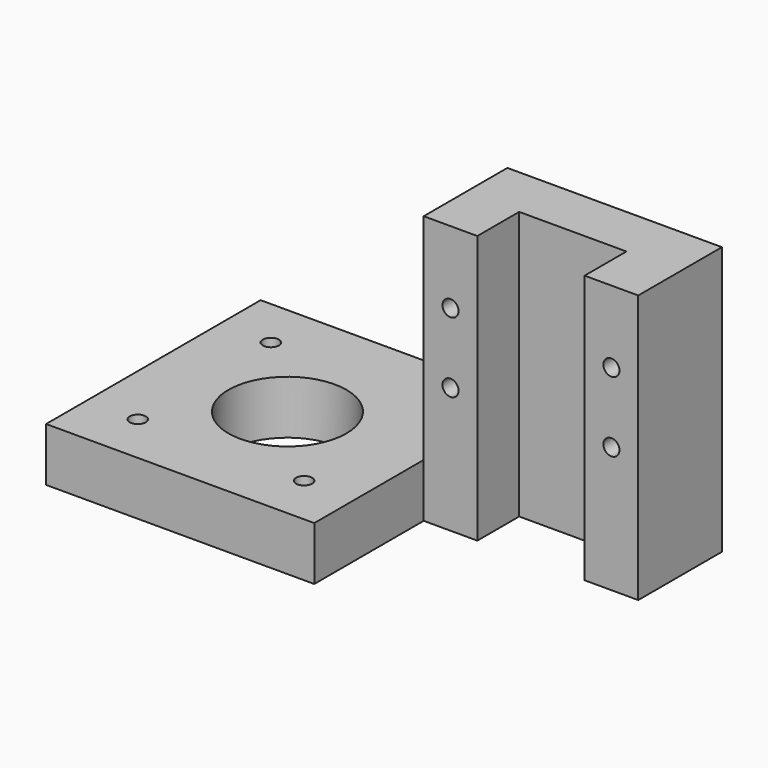
from build123d import *

# Parameters (mm, degrees)
F0_R     = 11
F1_DEPTH = 10
F3_D     = 3
F0_W     = 10
F0_H     = 9.75
F0_W_2   = 20
F4_DEPTH = 50
F5_R     = 1.5
F6_DEPTH = 3
F7_DEPTH = 20


with BuildPart() as f1:
    # F0 (on Top) → F1 (new body)
    with BuildSketch(Plane.XY):
        Polygon((18.0623630062, 45), (-31.9376369938, 45), (-31.9376369938, -5), (18.0623630062, -5), (18.0623630062, 0), (18.0623630062, 20.5), (18.0623630062, 30.25), (18.0623630062, 40), align=None)
        with Locations((-6.9376369938, 20)):
            Circle(F0_R, mode=Mode.SUBTRACT)
    extrude(amount=F1_DEPTH)

    # F3 (through all)
    with Locations(Plane(origin=(0, 0, 0), x_dir=(1, 0, 0), z_dir=(0, 0, -1))):
        with Locations((8.5623630062, -4.5), (-22.4376369938, -4.5), (-22.4376369938, -35.5), (8.5623630062, -35.5)):
            Hole(F3_D / 2)

    # F0 (on Top) → F4 (join)
    with BuildSketch(Plane.XY):
        with Locations((23.0623630062, 25.375)):
            Rectangle(F0_W, F0_H)
        with Locations((23.0623630062, 35.125)):
            Rectangle(F0_W, F0_H)
        with Locations((38.0623630062, 35.125)):
            Rectangle(F0_W_2, F0_H)
        with Locations((53.0623630062, 35.125)):
            Rectangle(F0_W, F0_H)
        with Locations((53.0623630062, 25.375)):
            Rectangle(F0_W, F0_H)
    extrude(amount=F4_DEPTH)

    # F5 (on face) → F6 (cut)
    with BuildSketch(Plane(origin=(0, 40, 0), x_dir=(-1, 0, 0), z_dir=(0, 1, 0))):
        Polygon((-20.0623630062, 25.1961524227), (-23.0623630062, 26.9282032303), (-26.0623630062, 25.1961524227), (-26.0623630062, 21.7320508076), (-23.0623630062, 20), (-20.0623630062, 21.7320508076), align=None)
        with Locations((-23.0623630062, 23.4641016151)):
            Circle(F5_R, mode=Mode.SUBTRACT)
        Polygon((-20.0623630062, 38.2679491924), (-23.0623630062, 40), (-26.0623630062, 38.2679491924), (-26.0623630062, 34.8038475773), (-23.0623630062, 33.0717967697), (-20.0623630062, 34.8038475773), align=None)
        with Locations((-23.0623630062, 36.5358983849)):
            Circle(F5_R, mode=Mode.SUBTRACT)
        Polygon((-56.0623630062, 34.8038475773), (-53.0623630062, 33.0717967697), (-50.0623630062, 34.8038475773), (-50.0623630062, 38.2679491924), (-53.0623630062, 40), (-56.0623630062, 38.2679491924), align=None)
        with Locations((-53.0623630062, 36.5358983849)):
            Circle(F5_R, mode=Mode.SUBTRACT)
        Polygon((-56.0623630062, 21.7320508076), (-53.0623630062, 20), (-50.0623630062, 21.7320508076), (-50.0623630062, 25.1961524227), (-53.0623630062, 26.9282032303), (-56.0623630062, 25.1961524227), align=None)
        with Locations((-53.0623630062, 23.4641016151)):
            Circle(F5_R, mode=Mode.SUBTRACT)
    extrude(amount=-F6_DEPTH, mode=Mode.SUBTRACT)

    # F7 (cut): faces of the model
    f7_faces = [f1.faces().sort_by_distance(p)[0] for p in [
        (23.0623630062, 40, 23.4641016151),
        (23.0623630062, 40, 36.5358983849),
        (53.0623630062, 40, 36.5358983849),
        (53.0623630062, 40, 23.4641016151),
    ]]
    extrude(f7_faces, amount=-F7_DEPTH, mode=Mode.SUBTRACT)


solid = f1.part
